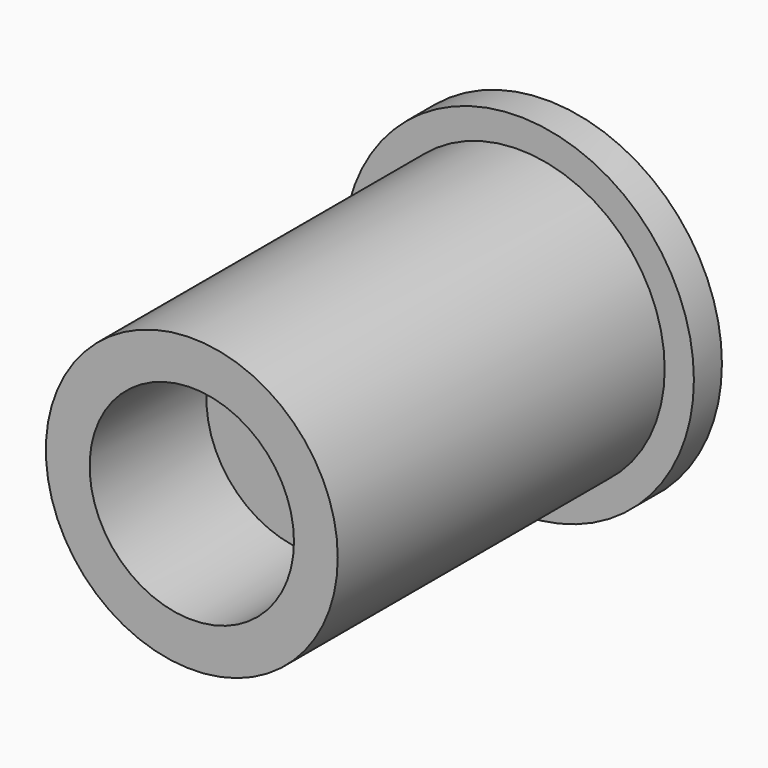
from build123d import *

# Parameters (mm, degrees)
F0_R     = 9.525
F0_R_2   = 7.5057
F0_R_3   = 3.175
F1_DEPTH = 25.4
F2_R     = 5.55625
F3_DEPTH = 7.9375
F2_R_2   = 9.525
F2_R_3   = 7.9375
F5_DEPTH = 22.225
F6_DEPTH = 1.27
F7_DEPTH = 7.9375
F8_D     = 5.1054


with BuildPart() as f1:
    # F0 (on Front) → F1 (new body)
    with BuildSketch(Plane.XZ):
        Circle(F0_R)
        Circle(F0_R_2, mode=Mode.SUBTRACT)
        Circle(F0_R_2)
        Circle(F0_R_3, mode=Mode.SUBTRACT)
        Circle(F0_R_3)
    extrude(amount=F1_DEPTH)

    # F2 (on face) → F3 (cut)
    with BuildSketch(Plane.XZ.offset(25.4)):
        Circle(F2_R)
    extrude(amount=-F3_DEPTH, mode=Mode.SUBTRACT)

    # F2 (on face) → F5 (cut)
    with BuildSketch(Plane.XZ.offset(25.4)):
        Circle(F2_R_2)
        Circle(F2_R_3, mode=Mode.SUBTRACT)
    extrude(amount=-F5_DEPTH, mode=Mode.SUBTRACT)

    # F0 (on Front) → F6 (cut)
    with BuildSketch(Plane.XZ):
        Circle(F0_R)
        Circle(F0_R_2, mode=Mode.SUBTRACT)
    extrude(amount=F6_DEPTH, mode=Mode.SUBTRACT)

    # F0 (on Front) → F7 (cut)
    with BuildSketch(Plane.XZ):
        Circle(F0_R_3)
    extrude(amount=F7_DEPTH, mode=Mode.SUBTRACT)

    # F8 (through all)
    with Locations(Plane.XZ.offset(17.4625)):
        with Locations((0, 0)):
            Hole(F8_D / 2)


solid = f1.part
